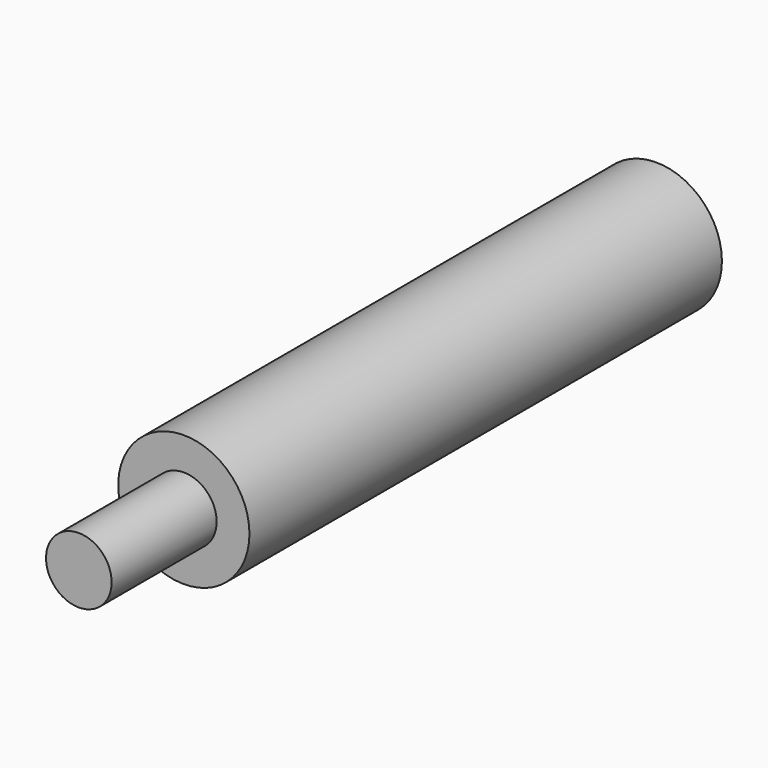
from build123d import *

# Parameters (mm, degrees)
F0_R     = 6.35
F1_DEPTH = 57.15
F2_R     = 3.175
F3_DEPTH = 12.7
F5_D     = 5.5118
F5_DEPTH = 12.7
F5_TIP   = 1.65591178


with BuildPart() as f1:
    # F0 (on Front) → F1 (new body)
    with BuildSketch(Plane.XZ):
        Circle(F0_R)
    extrude(amount=F1_DEPTH)

    # F2 (on face) → F3 (join)
    with BuildSketch(Plane.XZ.offset(57.15)):
        Circle(F2_R)
    extrude(amount=F3_DEPTH)

    # F5
    with Locations(Plane(origin=(0, 0, 0), x_dir=(-1, 0, 0), z_dir=(0, 1, 0))):
        with Locations((0, 0)):
            Hole(F5_D / 2, depth=F5_DEPTH)
            with Locations((0, 0, -(F5_DEPTH + F5_TIP / 2))):  # 118° drill point
                Cone(0, F5_D / 2, F5_TIP, mode=Mode.SUBTRACT)


solid = f1.part
